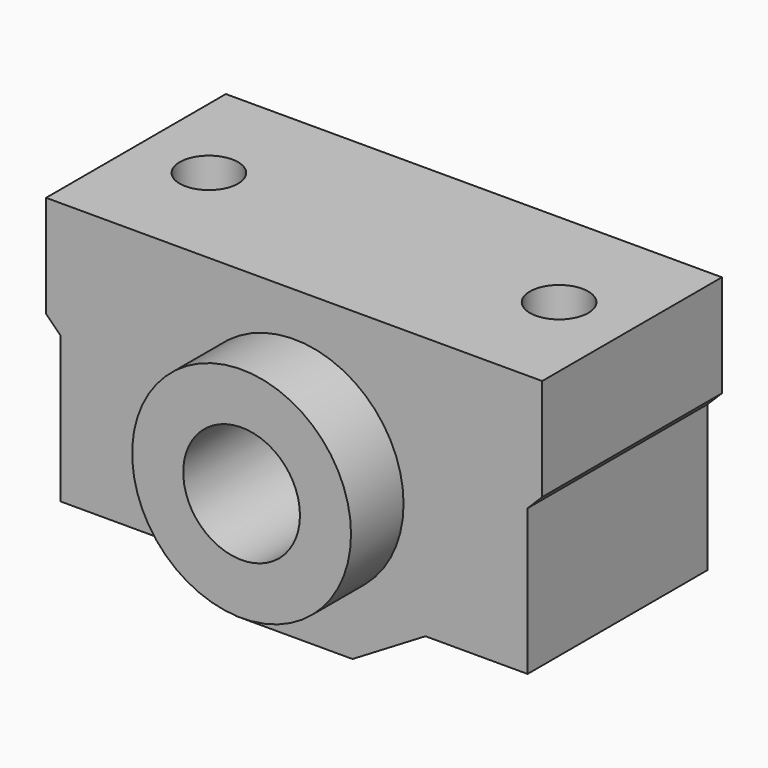
from build123d import *

# Parameters (mm, degrees)
F0_R          = 7.5
F1_DEPTH      = 7.7
F1_DEPTH_BACK = 7.7
F2_R          = 2
F3_DEPTH      = 25
F4_R          = 7.5
F4_R_2        = 4
F5_DEPTH      = 12.2
F5_DEPTH_BACK = 12.2


with BuildPart() as f1:
    # F0 (on Front) → F1 (new body, two sides)
    with BuildSketch(Plane.XZ) as f1_sk:
        Polygon((-4, -10.5), (4, -10.5), (9, -7.5), (16, -7.5), (16, 2.5), (17, 3.5), (17, 10.5), (-17, 10.5), (-17, 3.5), (-16, 2.5), (-16, -7.5), (-9, -7.5), align=None)
        Circle(F0_R, mode=Mode.SUBTRACT)
    extrude(amount=F1_DEPTH)
    extrude(f1_sk.sketch, amount=-F1_DEPTH_BACK)

    # F2 (on face) → F3 (cut)
    with BuildSketch(Plane.XY.offset(10.5)):
        with Locations((-12, 0)):
            Circle(F2_R)
        with Locations((12, 0)):
            Circle(F2_R)
    extrude(amount=-F3_DEPTH, mode=Mode.SUBTRACT)

    # F4 (on Front) → F5 (join, two sides)
    with BuildSketch(Plane.XZ) as f5_sk:
        Circle(F4_R)
        Circle(F4_R_2, mode=Mode.SUBTRACT)
    extrude(amount=F5_DEPTH)
    extrude(f5_sk.sketch, amount=-F5_DEPTH_BACK)


solid = f1.part
